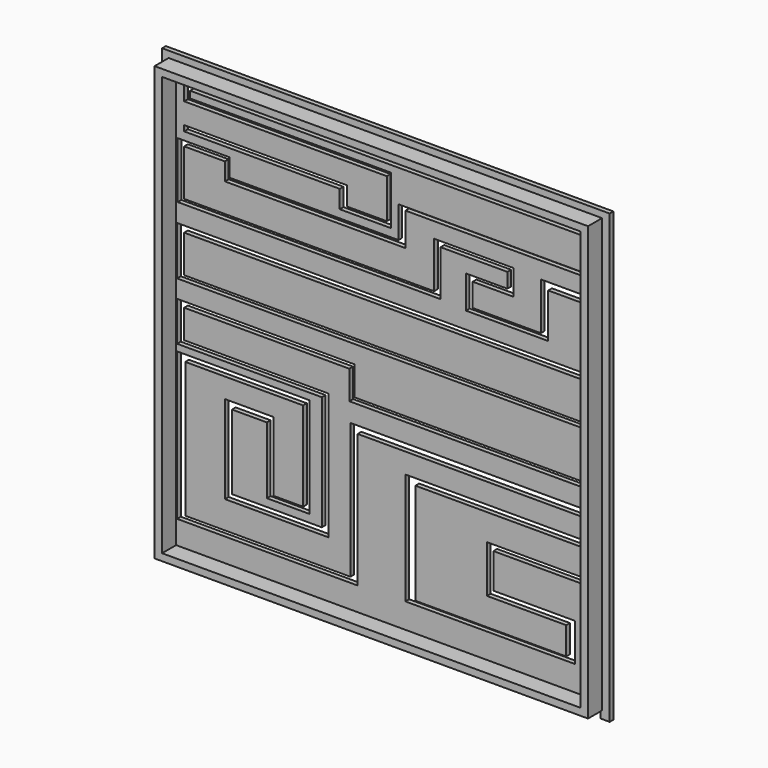
from build123d import *

# Parameters (mm, degrees)
F0_W     = 76.5
F0_H     = 76.5
F1_DEPTH = 0.795
F2_W     = 74.09
F2_H     = 74.09
F2_W_2   = 71.541
F2_H_2   = 71.684
F3_DEPTH = 3
F5_DEPTH = 0.795


with BuildPart() as f1:
    # F0 (on Front) → F1 (new body)
    with BuildSketch(Plane.XZ):
        with Locations((-38.25, 38.25)):
            Rectangle(F0_W, F0_H)
    extrude(amount=F1_DEPTH)

    # F2 (on face) → F3 (join)
    with BuildSketch(Plane.XZ.offset(0.795)):
        with Locations((-38.345, 38.345)):
            Rectangle(F2_W, F2_H)
        with Locations((-38.345, 38.345)):
            Rectangle(F2_W_2, F2_H_2, mode=Mode.SUBTRACT)
    extrude(amount=F3_DEPTH)

    # F4 (on face) → F5 (cut)
    with BuildSketch(Plane.XZ.offset(0.795)):
        Polygon((-72.97042, 0.726517), (-72.870188, -0.4949), (-1.538745, -0.4949), (-1.538745, 20.233245), (-20.977661, 20.233245), (-20.977661, 12.14023), (-7.426569, 12.14023), (-7.426569, 7.43499), (-33.211284, 7.43499), (-33.211284, 24.750275), (-2.344909, 24.750275), (-2.344909, 30.584774), (-44.315651, 30.584774), (-44.315651, 7.43499), (-72.547097, 7.43499), (-72.547097, 30.584774), (-52.408666, 30.584774), (-52.408666, 15.339793), (-57.490327, 15.339793), (-57.490327, 27.197001), (-65.771547, 27.197001), (-65.771547, 12.14023), (-48.079845, 12.14023), (-48.079845, 33.784337), (-72.735306, 33.784337), (-72.735306, 38.677789), (-44.503864, 38.677789), (-44.503864, 33.784337), (-2.344909, 33.784337), (-2.344909, 43.571237), (-72.735306, 43.571237), (-72.735306, 49.970365), (-2.344909, 49.970365), (-2.344909, 62.768615), (-11.75539, 62.768615), (-11.75539, 54.675604), (-23.424385, 54.675604), (-23.424385, 58.628007), (-16.46063, 58.628007), (-16.46063, 62.956824), (-30.011721, 62.956824), (-30.011721, 55.052026), (-72.735306, 55.052026), (-72.735306, 62.956824), (-65.771547, 62.956824), (-65.771547, 59.945471), (-34.905173, 59.945471), (-34.905173, 65.591767), (-2.344909, 65.591767), (-2.344909, 72.555519), (-72.735306, 72.555519), (-72.735306, 69.732375), (-38.104736, 69.732375), (-38.104736, 62.956824), (-44.880282, 62.956824), (-44.880282, 66.156394), (-72.735306, 66.156394), (-72.735306, 65.211832), (-46.141766, 65.211832), (-46.141766, 62.145642), (-37.366107, 62.145642), (-37.366107, 70.498376), (-71.728628, 70.498376), (-71.728628, 71.661412), (-3.320788, 71.661412), (-3.320788, 66.156394), (-36.097341, 66.156394), (-36.097341, 60.77114), (-64.961855, 60.77114), (-64.961855, 63.837334), (-73.843245, 63.837334), (-73.843245, 54.215829), (-28.907644, 54.215829), (-28.907644, 62.039911), (-17.488717, 62.039911), (-17.488717, 59.50237), (-24.57268, 59.50237), (-24.57268, 53.898636), (-10.510482, 53.898636), (-10.510482, 61.511255), (-3.320788, 61.511255), (-3.320788, 51.043905), (-73.948969, 51.043905), (-73.948969, 42.69117), (-3.320788, 42.69117), (-3.320788, 34.65563), (-43.604229, 34.65563), (-43.604229, 39.624977), (-73.948969, 39.624977), (-73.948969, 32.858203), (-49.20796, 32.858203), (-49.20796, 13.278713), (-64.569082, 13.278713), (-64.569082, 26.011829), (-58.600437, 26.011829), (-58.600437, 14.605078), (-51.305421, 14.605078), (-51.305421, 31.715206), (-73.948969, 31.715206), (-73.948969, 6.514244), (-43.081951, 6.514244), (-43.081951, 29.327746), (-3.320788, 29.327746), (-3.320788, 25.879192), (-34.905173, 25.879192), (-34.905173, 6.779518), (-5.943694, 6.779518), (-5.943694, 13.278713), (-19.87054, 13.278713), (-19.87054, 19.247362), (-2.673007, 19.247362), (-2.673007, 0.726517), align=None)
    extrude(amount=-F5_DEPTH, mode=Mode.SUBTRACT)


solid = f1.part
